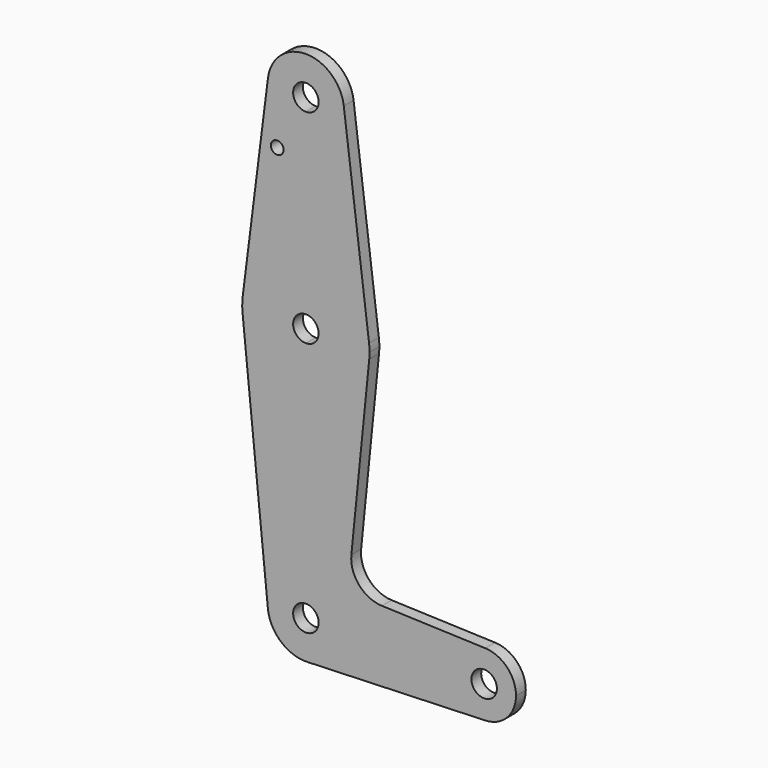
from build123d import *

# Parameters (mm, degrees)
F0_R     = 1.5875
F1_DEPTH = 3.048


with BuildPart() as f1:
    # F0 (on Front) → F1 (new body)
    with BuildSketch(Plane.XZ):
        with BuildLine():
            Line((19.6553543215, 51.7066326116), (19.6553543215, 64.4066326116))
            ThreePointArc((19.6553543215, 64.4066326116), (9.1550288057, 60.4378826116), (3.9048660479, 50.5160076116))
            ThreePointArc((3.9048660479, 50.5160076116), (3.7816105061, 48.7313380983), (3.8599287575, 46.9441326116))
            ThreePointArc((3.8599287575, 46.9441326116), (9.0060805787, 36.7584175134), (19.6553543215, 32.6566326116))
            Line((19.6553543215, 32.6566326116), (19.6553543215, 45.3566326116))
            ThreePointArc((19.6553543215, 45.3566326116), (16.4803543215, 48.5316326116), (19.6553543215, 51.7066326116))
        make_face()
        with BuildLine():
            ThreePointArc((29.1803543215, 99.3316326116), (26.3905464123, 92.5964405208), (19.6553543215, 89.8066326116))
            Line((19.6553543215, 89.8066326116), (19.6553543215, 64.4066326116))
            ThreePointArc((19.6553543215, 64.4066326116), (30.1556798373, 60.4378826116), (35.4058425952, 50.5160076116))
            Line((35.4058425952, 50.5160076116), (29.1056472857, 100.5222576116))
            ThreePointArc((29.1056472857, 100.5222576116), (29.1616592158, 99.9281158536), (29.1803543215, 99.3316326116))
        make_face()
        with BuildLine():
            ThreePointArc((19.6553543215, 32.6566326116), (9.0060805787, 36.7584175134), (3.8599287575, 46.9441326116))
            Line((3.8599287575, 46.9441326116), (10.1780989831, -15.9208673884))
            ThreePointArc((10.1780989831, -15.9208673884), (12.5914252626, -8.5788031427), (19.6553543215, -5.4433673884))
            Line((19.6553543215, -5.4433673884), (19.6553543215, 32.6566326116))
        make_face()
        with BuildLine():
            ThreePointArc((29.1803543215, -14.9683673884), (26.5097626072, -21.5821947261), (19.995532893, -24.4872908327))
            Line((19.995532893, -24.4872908327), (64.3888364644, -22.900803592))
            ThreePointArc((64.3888364644, -22.900803592), (58.5938315401, -20.6803742931), (56.1678543215, -14.9683673884))
            Line((56.1678543215, -14.9683673884), (29.1803543215, -14.9683673884))
        make_face()
        with BuildLine():
            ThreePointArc((10.2050613573, 100.5222576116), (12.5116043215, 93.0314373022), (19.6553543215, 89.8066326116))
            ThreePointArc((19.6553543215, 89.8066326116), (26.3905464123, 92.5964405208), (29.1803543215, 99.3316326116))
            ThreePointArc((29.1803543215, 99.3316326116), (29.1616592158, 99.9281158536), (29.1056472857, 100.5222576116))
            ThreePointArc((29.1056472857, 100.5222576116), (19.6553543215, 108.8566326116), (10.2050613573, 100.5222576116))
        make_face()
        with BuildLine():
            ThreePointArc((22.8303543215, 99.3316326116), (21.9004183518, 97.0865685814), (19.6553543215, 96.1566326116))
            ThreePointArc((19.6553543215, 96.1566326116), (17.4102902913, 101.5766966419), (22.8303543215, 99.3316326116))
        make_face(mode=Mode.SUBTRACT)
        with BuildLine():
            ThreePointArc((35.4058425952, 50.5160076116), (30.1556798373, 60.4378826116), (19.6553543215, 64.4066326116))
            Line((19.6553543215, 64.4066326116), (19.6553543215, 51.7066326116))
            ThreePointArc((19.6553543215, 51.7066326116), (21.9004183518, 50.7766966419), (22.8303543215, 48.5316326116))
            ThreePointArc((22.8303543215, 48.5316326116), (21.9004183518, 46.2865685814), (19.6553543215, 45.3566326116))
            Line((19.6553543215, 45.3566326116), (19.6553543215, 32.6566326116))
            ThreePointArc((19.6553543215, 32.6566326116), (30.3046280644, 36.7584175134), (35.4507798856, 46.9441326116))
            ThreePointArc((35.4507798856, 46.9441326116), (35.5104482322, 47.7368860576), (35.5303543215, 48.5316326116))
            ThreePointArc((35.5303543215, 48.5316326116), (35.4991958119, 49.5257713483), (35.4058425952, 50.5160076116))
        make_face()
        with BuildLine():
            Line((19.6553543215, 64.4066326116), (19.6553543215, 89.8066326116))
            ThreePointArc((19.6553543215, 89.8066326116), (12.5116043215, 93.0314373022), (10.2050613573, 100.5222576116))
            Line((10.2050613573, 100.5222576116), (3.9048660479, 50.5160076116))
            ThreePointArc((3.9048660479, 50.5160076116), (9.1550288057, 60.4378826116), (19.6553543215, 64.4066326116))
        make_face()
        with Locations((12.5091942027, 85.9628245234)):
            Circle(F0_R, mode=Mode.SUBTRACT)
        with BuildLine():
            ThreePointArc((19.6553543215, -5.4433673884), (12.5914252626, -8.5788031427), (10.1780989831, -15.9208673884))
            ThreePointArc((10.1780989831, -15.9208673884), (13.3929709399, -22.1452872975), (19.995532893, -24.4872908327))
            ThreePointArc((19.995532893, -24.4872908327), (26.5097626072, -21.5821947261), (29.1803543215, -14.9683673884))
            Line((29.1803543215, -14.9683673884), (22.8303543215, -14.9683673884))
            ThreePointArc((22.8303543215, -14.9683673884), (17.4102902913, -17.2134314186), (19.6553543215, -11.7933673884))
            Line((19.6553543215, -11.7933673884), (19.6553543215, -5.4433673884))
        make_face()
        with BuildLine():
            ThreePointArc((56.1678543215, -14.9683673884), (58.5938315401, -20.6803742931), (64.3888364644, -22.900803592))
            ThreePointArc((64.3888364644, -22.900803592), (69.8173612262, -20.4798901698), (72.0428543215, -14.9683673884))
            ThreePointArc((72.0428543215, -14.9683673884), (69.8173612262, -9.4568446069), (64.3888364644, -7.0359311847))
            ThreePointArc((64.3888364644, -7.0359311847), (58.5938315401, -9.2563604837), (56.1678543215, -14.9683673884))
        make_face()
        with BuildLine():
            ThreePointArc((67.2803543215, -14.9683673884), (64.1053543215, -18.1433673884), (60.9303543215, -14.9683673884))
            ThreePointArc((60.9303543215, -14.9683673884), (64.1053543215, -11.7933673884), (67.2803543215, -14.9683673884))
        make_face(mode=Mode.SUBTRACT)
        with BuildLine():
            ThreePointArc((35.4507798856, 46.9441326116), (30.3046280644, 36.7584175134), (19.6553543215, 32.6566326116))
            Line((19.6553543215, 32.6566326116), (19.6553543215, -5.4433673884))
            ThreePointArc((19.6553543215, -5.4433673884), (26.3905464123, -8.2331752976), (29.1803543215, -14.9683673884))
            Line((29.1803543215, -14.9683673884), (56.1678543215, -14.9683673884))
            ThreePointArc((56.1678543215, -14.9683673884), (58.5938315401, -9.2563604837), (64.3888364644, -7.0359311847))
            Line((64.3888364644, -7.0359311847), (38.6229543221, -6.1151336775))
            ThreePointArc((38.6229543221, -6.1151336775), (32.9165542189, -3.3970082385), (30.9965409139, 2.625014424))
            Line((30.9965409139, 2.625014424), (35.4507798856, 46.9441326116))
        make_face()
        with BuildLine():
            ThreePointArc((29.1803543215, -14.9683673884), (26.3905464123, -8.2331752976), (19.6553543215, -5.4433673884))
            Line((19.6553543215, -5.4433673884), (19.6553543215, -11.7933673884))
            ThreePointArc((19.6553543215, -11.7933673884), (21.9004183518, -12.7233033581), (22.8303543215, -14.9683673884))
            Line((22.8303543215, -14.9683673884), (29.1803543215, -14.9683673884))
        make_face()
    extrude(amount=F1_DEPTH)


solid = f1.part
